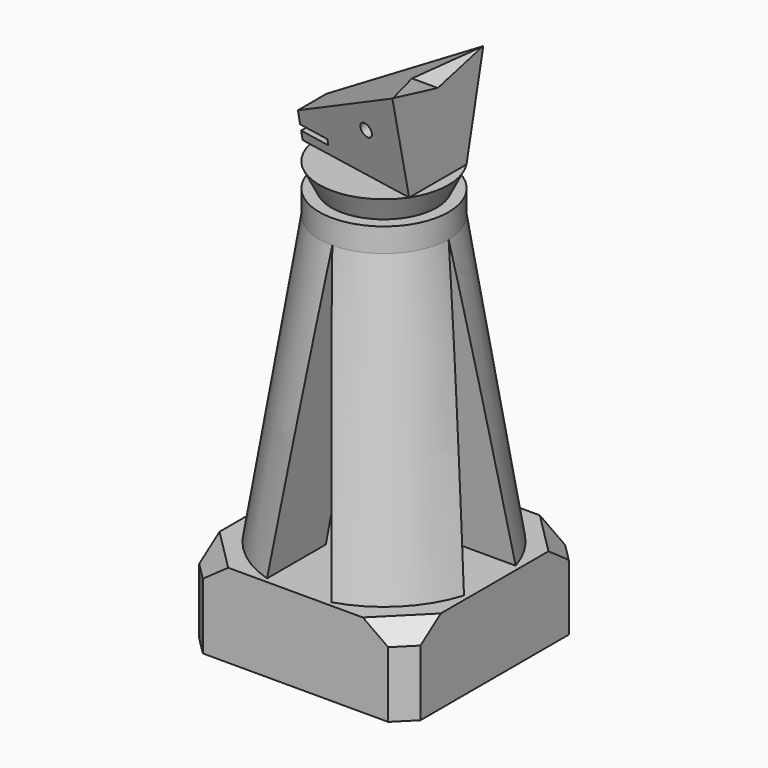
from build123d import *

# Parameters (mm, degrees)
SKETCH_W           = 18.5
SKETCH_H           = 18.5
SKETCH_R           = 8.15
PAD_DEPTH          = 4
SKETCH001_W        = 18.5
SKETCH001_H        = 18.5
PAD001_DEPTH       = 3
SKETCH002_R        = 9.25
SKETCH003_R        = 5.4
SKETCH005_R        = 5.4
PAD002_DEPTH       = 2
CHAMFER_SIZE       = 1.5
CHAMFER001_SIZE    = 1.5
POCKET_DEPTH       = 102.726887
POLARPATTERN_COUNT = 4
SKETCH007_R        = 4.4
SKETCH008_R        = 5.4
SKETCH009_W        = 9
SKETCH009_H        = 1
PAD003_DEPTH       = 1
SKETCH012_R        = 0.5655
SKETCH012_W        = 3.231
SKETCH012_H        = 0.497
POCKET001_DEPTH    = 18.501
POCKET002_DEPTH    = 13.751


with BuildPart() as part:
    # Sketch → Pad (new body)
    with BuildSketch(Plane.XY):
        Rectangle(SKETCH_W, SKETCH_H)
        Circle(SKETCH_R, mode=Mode.SUBTRACT)
    extrude(amount=PAD_DEPTH)

    # Sketch001 (on Face7 of Pad) → Pad001 (join)
    with BuildSketch(Plane.XY.offset(4)):
        Rectangle(SKETCH001_W, SKETCH001_H)
    extrude(amount=PAD001_DEPTH)

    # Sketch002 (on Face10 of Pad001) → AdditiveLoft section 0
    with BuildSketch(Plane.XY.offset(7)):
        Circle(SKETCH002_R)
    # Sketch003 (on Face10 of Pad001) → AdditiveLoft section 1
    with BuildSketch(Plane.XY.offset(31)):
        Circle(SKETCH003_R)
    loft()

    # Sketch005 (on Face17 of AdditiveLoft) → Pad002 (join)
    with BuildSketch(Plane.XY.offset(31)):
        Circle(SKETCH005_R)
    extrude(amount=PAD002_DEPTH)

    # Chamfer
    chamfer_edges = [part.edges().sort_by_distance(p)[0] for p in [
        (-9.25, -9.25, 5.5),
        (-9.25, -9.25, 2),
        (9.25, -9.25, 5.5),
        (9.25, -9.25, 2),
        (9.25, 9.25, 2),
        (9.25, 9.25, 5.5),
        (-9.25, 9.25, 5.5),
        (-9.25, 9.25, 2),
    ]]
    chamfer(chamfer_edges, length=CHAMFER_SIZE)

    # Chamfer001
    chamfer001_edges = [part.edges().sort_by_distance(p)[0] for p in [
        (8.5, -8.5, 7),
        (-8.5, -8.5, 7),
        (-8.5, 8.5, 7),
        (8.5, 8.5, 7),
    ]]
    chamfer(chamfer001_edges, length=CHAMFER001_SIZE)

    # Sketch006 (on Face19 of Chamfer001) → Pocket (cut, through all)
    with BuildSketch(Plane.YZ.offset(9.25)):
        Polygon((0, 31), (-2.7, 7), (2.7, 7), align=None)
    pocket = extrude(amount=-POCKET_DEPTH, mode=Mode.SUBTRACT)

    # PolarPattern: Pocket ×4 about axis
    polarpattern_axis = Axis((0, 0, 0), (0, 0, 1))
    for i in range(1, POLARPATTERN_COUNT):
        add(pocket.rotate(polarpattern_axis, i * 360 / POLARPATTERN_COUNT), mode=Mode.SUBTRACT)

    # Sketch007 (on Face47 of PolarPattern) → AdditiveLoft001 section 0
    with BuildSketch(Plane.XY.offset(33)):
        Circle(SKETCH007_R)
    # Sketch008 → AdditiveLoft001 section 1
    with BuildSketch(Plane.XY.offset(35)):
        Circle(SKETCH008_R)
    loft()

    # Sketch009 (on Face56 of AdditiveLoft001) → Pad003 (join)
    with BuildSketch(Plane.XY.offset(35)):
        Rectangle(SKETCH009_W, SKETCH009_H)
    extrude(amount=PAD003_DEPTH)

    # Sketch010 (on Face59 of Pad003) → AdditiveLoft002 section 0
    with BuildSketch(Plane.YZ.offset(4.5)):
        Polygon((-3, 35), (-4.75, 43), (4.75, 43), (3, 35), align=None)
    # Sketch011 → AdditiveLoft002 section 1
    with BuildSketch(Plane(origin=(-6, 0, 0), x_dir=(0, -1, 0), z_dir=(-1, 0, 0))):
        Polygon((-1.5, 37.4), (1.5, 37.4), (1, 35), (-1, 35), align=None)
    loft()

    # Sketch012 (on Face43 of AdditiveLoft002) → Pocket001 (cut, through all)
    with BuildSketch(Plane.XZ.offset(9.25)):
        with Locations((1.06, 38.921)):
            Circle(SKETCH012_R)
        with Locations((-4.9245, 36.0185)):
            Rectangle(SKETCH012_W, SKETCH012_H)
    extrude(amount=-POCKET001_DEPTH, mode=Mode.SUBTRACT)

    # Sketch013 (on Face62 of Pocket001) → Pocket002 (cut, through all)
    with BuildSketch(Plane.YZ.offset(4.5)):
        Polygon((0, 44.847), (5.530097, 43.207534), (0, 41.847), (-5.530097, 43.207534), align=None)
    extrude(amount=-POCKET002_DEPTH, mode=Mode.SUBTRACT)


solid = part.part
